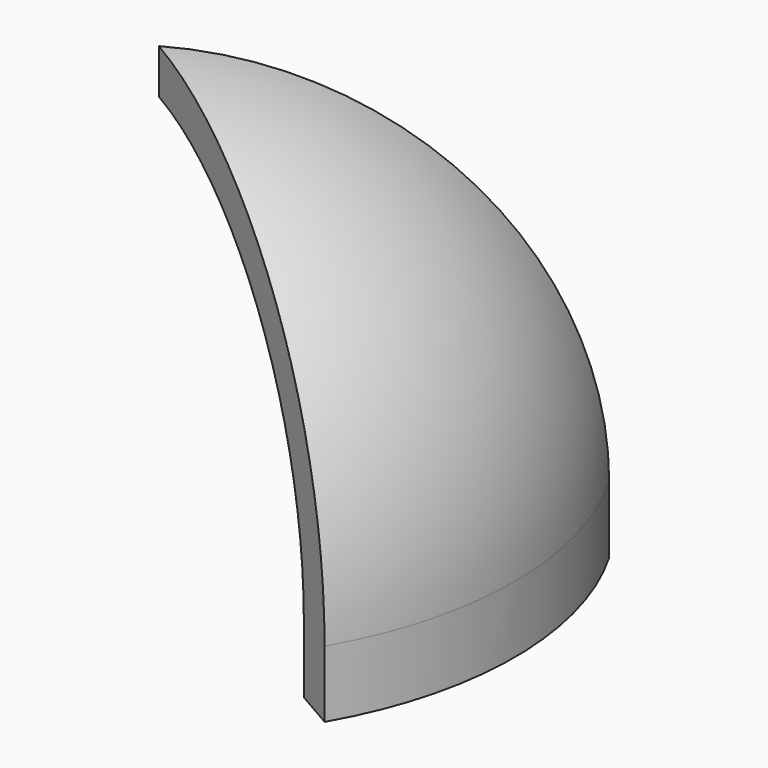
from build123d import *

# Parameters (mm, degrees)
F2_ANGLE_BACK = 30
F2_ANGLE      = 60


with BuildPart() as f2:
    # F1 (on Front) → F2 (revolve)
    with BuildSketch(Plane.XZ, mode=Mode.PRIVATE) as f2_sk:
        with BuildLine():
            ThreePointArc((0, 140), (98.9949493661, 98.9949493661), (140, 0))
            Line((140, 0), (140, -30))
            Line((140, -30), (160, -30))
            Line((160, -30), (160, 0))
            ThreePointArc((160, 0), (113.1370849898, 113.1370849898), (0, 160))
            Line((0, 160), (0, 140))
        make_face()
    revolve(f2_sk.sketch.rotate(Axis((0, 0, 50), (0, 0, 1)), -F2_ANGLE_BACK), axis=Axis((0, 0, 50), (0, 0, 1)), revolution_arc=F2_ANGLE)


solid = f2.part
